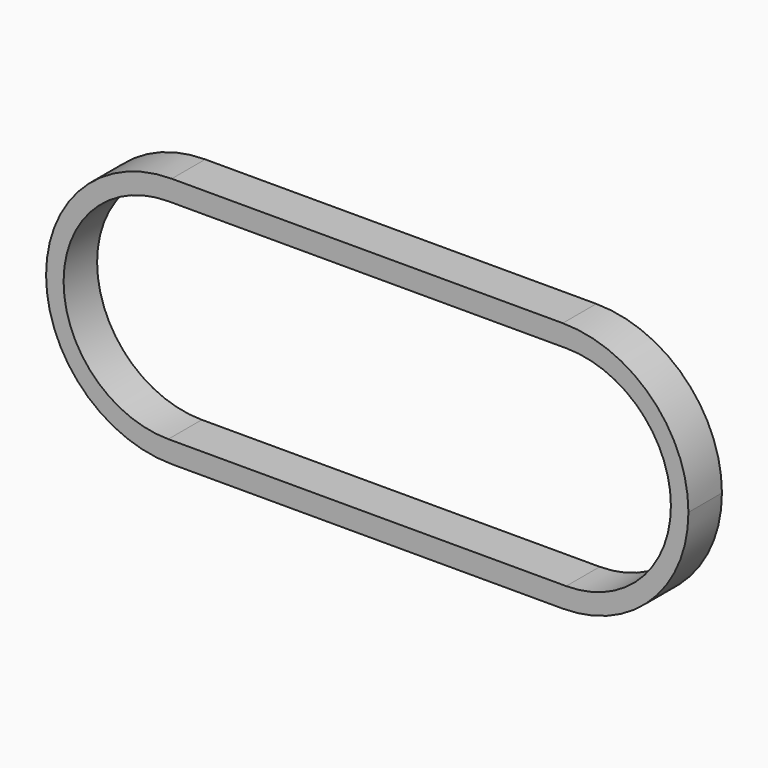
from build123d import *

# Parameters (mm, degrees)
F1_DEPTH = 12.7
F3_DEPTH = 25.4


with BuildPart() as f1:
    # F0 (on Front) → F1 (new body)
    with BuildSketch(Plane.XZ):
        with BuildLine():
            Line((-59.2836, 0), (-59.2836, 38.1))
            ThreePointArc((-59.2836, 38.1), (-97.3836, 0), (-59.2836, -38.1))
            Line((-59.2836, -38.1), (-59.2836, 0))
        make_face()
        with BuildLine():
            ThreePointArc((-21.1836, 0), (-32.342832, 26.940768), (-59.2836, 38.1))
            Line((-59.2836, 38.1), (-59.2836, 0))
            Line((-59.2836, 0), (-59.2836, -38.1))
            ThreePointArc((-59.2836, -38.1), (-32.342832, -26.940768), (-21.1836, 0))
        make_face()
        with BuildLine():
            Line((59.2836, 38.1), (-59.2836, 38.1))
            ThreePointArc((-59.2836, 38.1), (-32.342832, 26.940768), (-21.1836, 0))
            ThreePointArc((-21.1836, 0), (-32.342832, -26.940768), (-59.2836, -38.1))
            Line((-59.2836, -38.1), (59.2836, -38.1))
            ThreePointArc((59.2836, -38.1), (21.1836, 0), (59.2836, 38.1))
        make_face()
        with BuildLine():
            Line((59.2836, 0), (59.2836, 38.1))
            ThreePointArc((59.2836, 38.1), (21.1836, 0), (59.2836, -38.1))
            Line((59.2836, -38.1), (59.2836, 0))
        make_face()
        with BuildLine():
            ThreePointArc((97.3836, 0), (86.224368, 26.940768), (59.2836, 38.1))
            Line((59.2836, 38.1), (59.2836, 0))
            Line((59.2836, 0), (59.2836, -38.1))
            ThreePointArc((59.2836, -38.1), (86.224368, -26.940768), (97.3836, 0))
        make_face()
    extrude(amount=F1_DEPTH)

    # F2 (on Front) → F3 (cut)
    with BuildSketch(Plane.XZ):
        with BuildLine():
            Line((-60.325, 0), (-60.325, 31.75))
            ThreePointArc((-60.325, 31.75), (-92.075, 0), (-60.325, -31.75))
            Line((-60.325, -31.75), (-60.325, 0))
        make_face()
        with BuildLine():
            ThreePointArc((-28.575, 0), (-37.87436, 22.45064), (-60.325, 31.75))
            Line((-60.325, 31.75), (-60.325, 0))
            Line((-60.325, 0), (-60.325, -31.75))
            ThreePointArc((-60.325, -31.75), (-37.87436, -22.45064), (-28.575, 0))
        make_face()
        with BuildLine():
            ThreePointArc((60.325, -31.75), (28.575, 0), (60.325, 31.75))
            Line((60.325, 31.75), (-60.325, 31.75))
            ThreePointArc((-60.325, 31.75), (-37.87436, 22.45064), (-28.575, 0))
            ThreePointArc((-28.575, 0), (-37.87436, -22.45064), (-60.325, -31.75))
            Line((-60.325, -31.75), (60.325, -31.75))
        make_face()
        with BuildLine():
            Line((60.325, 0), (60.325, 31.75))
            ThreePointArc((60.325, 31.75), (28.575, 0), (60.325, -31.75))
            Line((60.325, -31.75), (60.325, 0))
        make_face()
        with BuildLine():
            ThreePointArc((92.075, 0), (82.77564, 22.45064), (60.325, 31.75))
            Line((60.325, 31.75), (60.325, 0))
            Line((60.325, 0), (60.325, -31.75))
            ThreePointArc((60.325, -31.75), (82.77564, -22.45064), (92.075, 0))
        make_face()
    extrude(amount=F3_DEPTH, mode=Mode.SUBTRACT)


solid = f1.part
